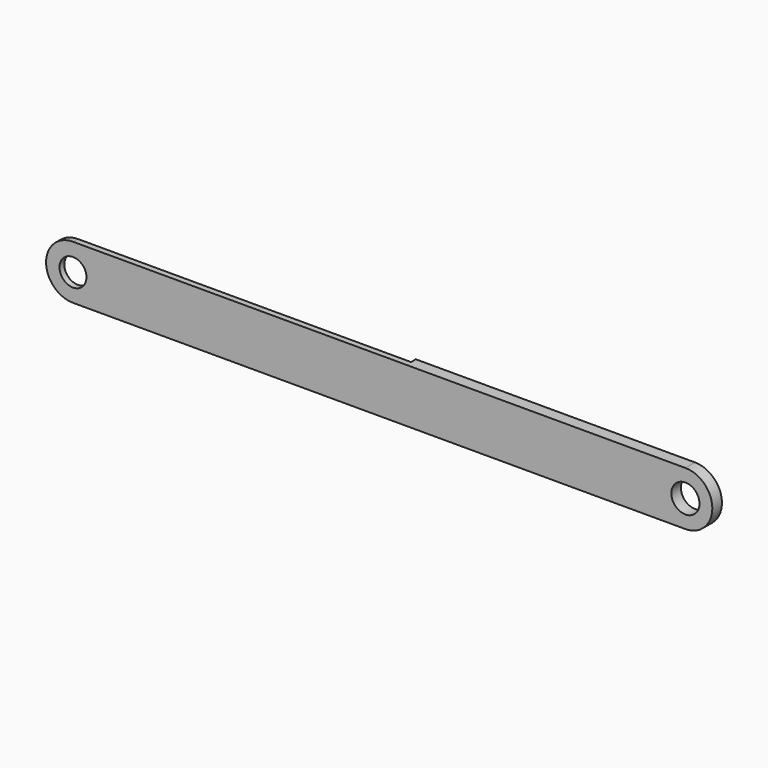
from build123d import *

# Parameters (mm, degrees)
F0_R     = 11.2111638742
F0_R_2   = 11.727131611
F1_DEPTH = 10
F2_W     = 22.4031397956
F2_H     = 5
F3_DEPTH = 150


with BuildPart() as f1:
    # F0 (on Front) → F1 (new body)
    with BuildSketch(Plane.XZ):
        with BuildLine():
            ThreePointArc((255, -22.4031397956), (277.4031397956, 0), (255, 22.4031397956))
            Line((255, 22.4031397956), (-255, 22.4031397956))
            ThreePointArc((-255, 22.4031397956), (-277.4031397956, 0), (-255, -22.4031397956))
            Line((-255, -22.4031397956), (255, -22.4031397956))
        make_face()
        with Locations((-255, 0)):
            Circle(F0_R, mode=Mode.SUBTRACT)
        with Locations((255, 0)):
            Circle(F0_R_2, mode=Mode.SUBTRACT)
    extrude(amount=F1_DEPTH)

    # F2 (on face) → F3 (cut)
    with BuildSketch(Plane.XY.offset(22.4031397956)):
        Polygon((-255, 0), (22.4446713773, 0), (22.1150012921, 10.8309555799), (-277.4031397956, 10.8309555799), (-277.4031397956, 0), align=None)
        Polygon((-255, -5), (22.5968602044, -5), (22.4446713773, 0), (-255, 0), align=None)
        with Locations((-266.2015698978, -2.5)):
            Rectangle(F2_W, F2_H)
    extrude(amount=-F3_DEPTH, mode=Mode.SUBTRACT)


solid = f1.part
